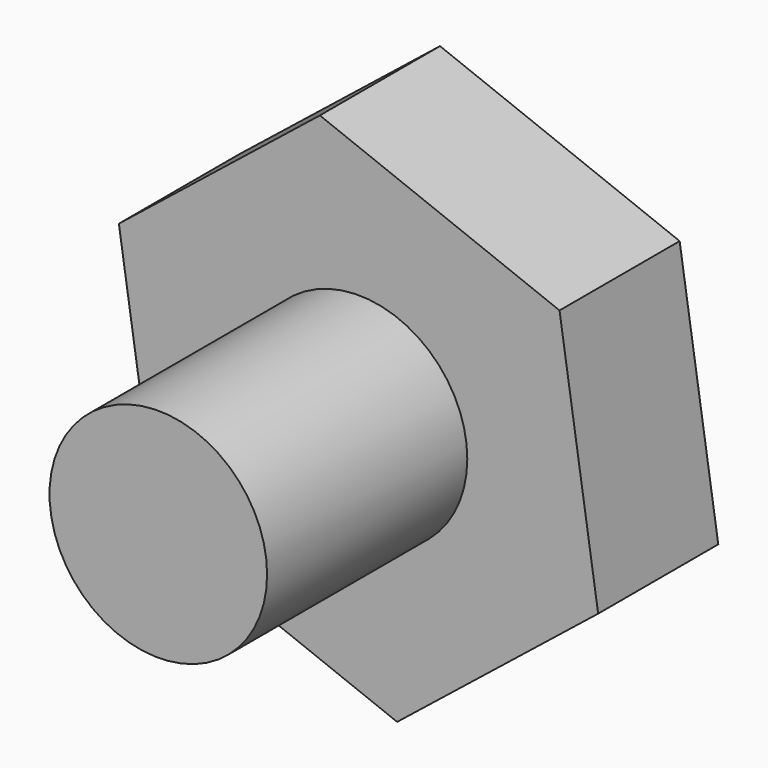
from build123d import *

# Parameters (mm, degrees)
F1_DEPTH = 38.1
F2_R     = 27.603374
F3_DEPTH = 63.5


with BuildPart() as f1:
    # F0 (on Front) → F1 (new body)
    with BuildSketch(Plane.XZ):
        Polygon((51.004349, 40.765317), (-9.801625, 64.553721), (-60.805975, 23.788404), (-51.004349, -40.765317), (9.801625, -64.553721), (60.805975, -23.788404), align=None)
    extrude(amount=F1_DEPTH)

    # F2 (on face) → F3 (join)
    with BuildSketch(Plane.XZ.offset(38.1)):
        Circle(F2_R)
        Circle(F2_R)
    extrude(amount=F3_DEPTH)


solid = f1.part
